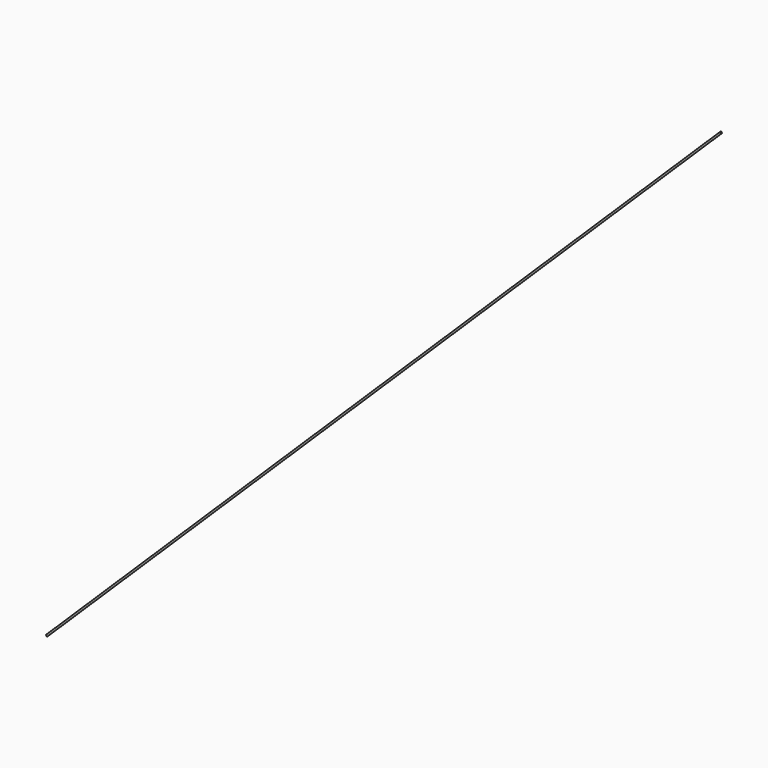
from build123d import *

# Parameters (mm, degrees)
F2_R = 0.1


with BuildPart() as f3:
    # F3: sweep along a path in F0
    with BuildLine(Plane.XZ) as f3_path:
        Line((0, 0), (75.397715, 74.047312))
    # F2 (on face) → F3 (sweep)
    with BuildSketch(Plane(origin=(75.397715, 0, 74.047312), x_dir=(0, 1, 0), z_dir=(0.713467, 0, 0.700689))):
        Circle(F2_R)
    sweep(path=f3_path.line)


solid = f3.part
